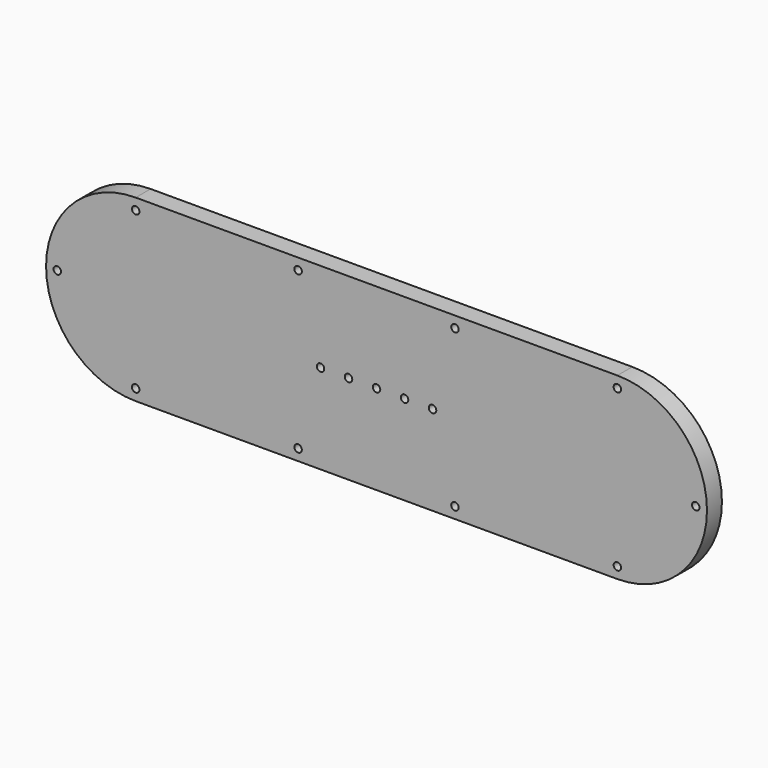
from build123d import *

# Parameters (mm, degrees)
F0_R     = 2
F1_DEPTH = 10


with BuildPart() as f1:
    # F0 (on Front) → F1 (new body)
    with BuildSketch(Plane.XZ):
        with BuildLine():
            ThreePointArc((129, -48), (177, 0), (129, 48))
            Line((129, 48), (0, 48))
            Line((0, 48), (-129, 48))
            ThreePointArc((-129, 48), (-177, 0), (-129, -48))
            Line((-129, -48), (0, -48))
            Line((0, -48), (129, -48))
        make_face()
        with Locations((-129, -42)):
            Circle(F0_R, mode=Mode.SUBTRACT)
        with Locations((-42, -42)):
            Circle(F0_R, mode=Mode.SUBTRACT)
        with Locations((42, -42)):
            Circle(F0_R, mode=Mode.SUBTRACT)
        with Locations((129, -42)):
            Circle(F0_R, mode=Mode.SUBTRACT)
        with Locations((-171, 0)):
            Circle(F0_R, mode=Mode.SUBTRACT)
        with Locations((-30, 0)):
            Circle(F0_R, mode=Mode.SUBTRACT)
        with Locations((-15, 0)):
            Circle(F0_R, mode=Mode.SUBTRACT)
        with Locations((-129, 42)):
            Circle(F0_R, mode=Mode.SUBTRACT)
        with Locations((-42, 42)):
            Circle(F0_R, mode=Mode.SUBTRACT)
        Circle(F0_R, mode=Mode.SUBTRACT)
        with Locations((15, 0)):
            Circle(F0_R, mode=Mode.SUBTRACT)
        with Locations((30, 0)):
            Circle(F0_R, mode=Mode.SUBTRACT)
        with Locations((171, 0)):
            Circle(F0_R, mode=Mode.SUBTRACT)
        with Locations((42, 42)):
            Circle(F0_R, mode=Mode.SUBTRACT)
        with Locations((129, 42)):
            Circle(F0_R, mode=Mode.SUBTRACT)
    extrude(amount=F1_DEPTH)


solid = f1.part
